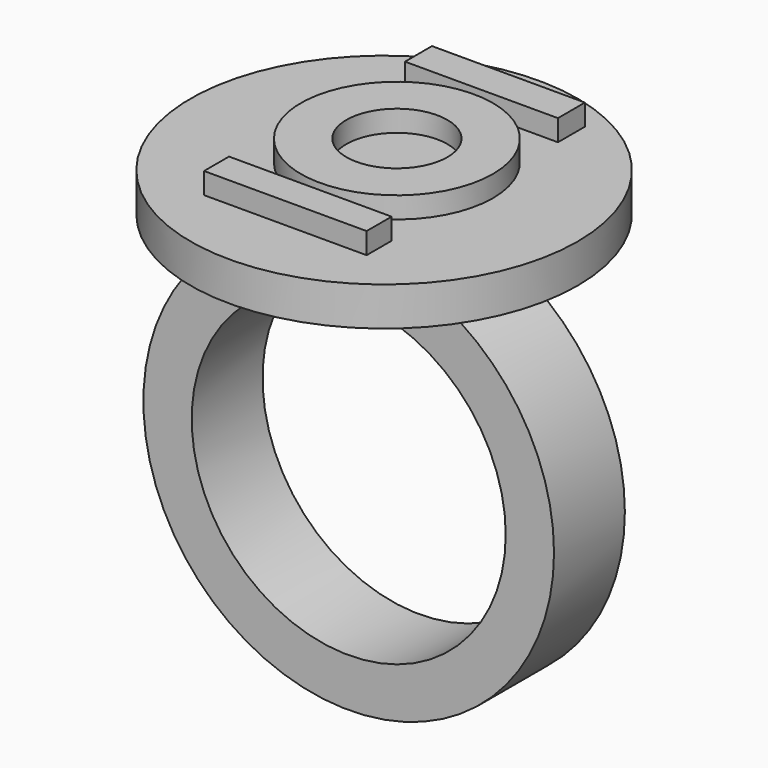
from build123d import *

# Parameters (mm, degrees)
F0_R     = 29.44181
F0_R_2   = 22.516736
F1_DEPTH = 6.35
F4_W     = 23.315095
F4_H     = 4.478589
F4_R     = 13.775166
F4_R_2   = 7.238941
F4_W_2   = 21.928261
F4_H_2   = 4.832799
F5_DEPTH = 3.048


with BuildPart() as f1:
    # F0 (on Front) → F1 (new body, symmetric)
    with BuildSketch(Plane.XZ):
        Circle(F0_R)
        Circle(F0_R_2, mode=Mode.SUBTRACT)
    extrude(amount=F1_DEPTH, both=True)


with BuildPart() as f3:
    # F2 (on Front) → F3 (revolve)
    with BuildSketch(Plane.XZ):
        Polygon((0, 36.15227), (0, 30.231711), (27.753161, 30.579977), (27.753161, 36.15227), align=None)
    revolve(axis=Axis((0, 0, 33.19199), (0, 0, 1)))

    # F4 (on face) → F5 (join)
    with BuildSketch(Plane.XY.offset(36.15227)):
        with Locations((-0.288241, -15.111262)):
            Rectangle(F4_W, F4_H)
        with Locations((0, 2.288465)):
            Circle(F4_R)
        with Locations((0, 2.288465)):
            Circle(F4_R_2, mode=Mode.SUBTRACT)
        with Locations((0.026374, 19.831036)):
            Rectangle(F4_W_2, F4_H_2)
    extrude(amount=F5_DEPTH)


solid = Compound([f1.part, f3.part])
